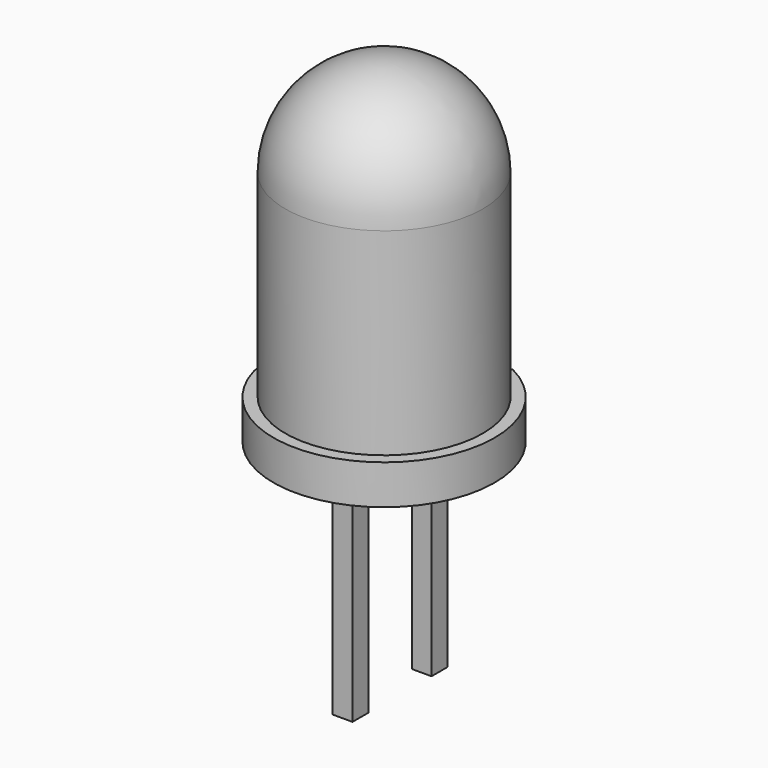
from build123d import *

# Parameters (mm, degrees)
F0_R     = 2.5
F1_DEPTH = 7.5
F2_R     = 2.5
F4_DEPTH = 1
F6_W     = 0.5
F6_H     = 0.5
F7_DEPTH = 5.5


with BuildPart() as f1:
    # F0 (on Top) → F1 (new body)
    with BuildSketch(Plane.XY):
        Circle(F0_R)
    extrude(amount=F1_DEPTH)

    # F2
    f2_edges = [f1.edges().sort_by_distance(p)[0] for p in [
        (-2.5, 0, 7.5),
    ]]
    fillet(f2_edges, radius=F2_R)

    # F3 (on face) → F4 (join)
    with BuildSketch(Plane(origin=(0, 0, 0), x_dir=(1, 0, 0), z_dir=(0, 0, -1))):
        with BuildLine():
            Line((-1.2609520213, -2.5), (1.2609520213, -2.5))
            ThreePointArc((1.2609520213, -2.5), (0, 2.8), (-1.2609520213, -2.5))
        make_face()
    extrude(amount=F4_DEPTH)

    # F6 (on offset) → F7 (join)
    with BuildSketch(Plane(origin=(0, 0, -1), x_dir=(1, 0, 0), z_dir=(0, 0, -1))):
        with Locations((0.1509, 1.25)):
            Rectangle(F6_W, F6_H)
        with Locations((0.1509, -1.25)):
            Rectangle(F6_W, F6_H)
    extrude(amount=F7_DEPTH)


solid = f1.part
